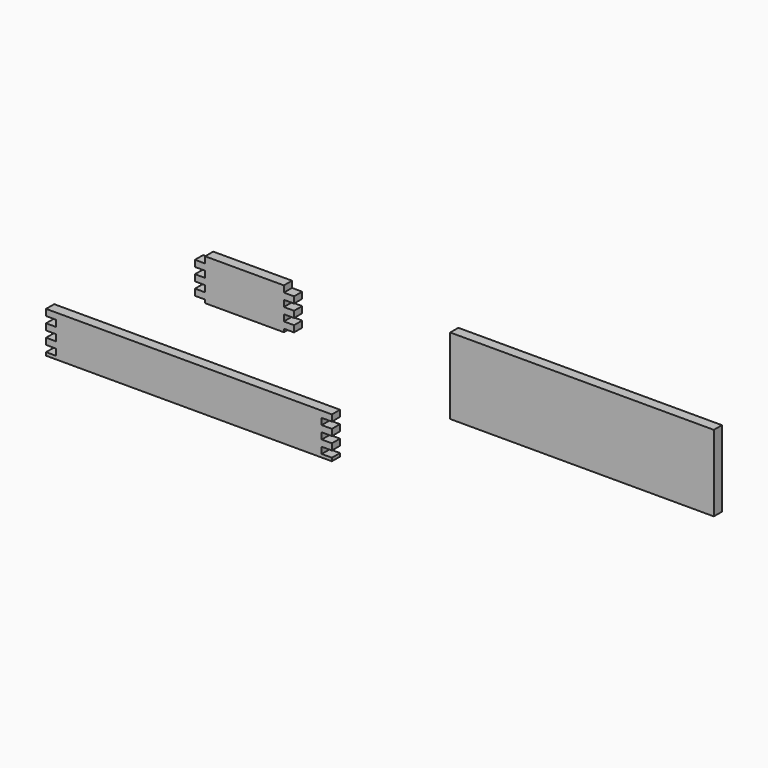
from build123d import *

# Parameters (mm, degrees)
F0_W     = 41.5
F0_H     = 12
F1_DEPTH = 1.6


with BuildPart() as f1:
    # F0 (on Front) → F1 (new body)
    with BuildSketch(Plane.XZ):
        Polygon((-14.412716, 42.46309), (-26.812716, 42.46309), (-26.812716, 41.46309), (-28.412716, 41.46309), (-28.412716, 40.46309), (-26.812716, 40.46309), (-26.812716, 39.46309), (-28.412716, 39.46309), (-28.412716, 38.46309), (-26.812716, 38.46309), (-26.812716, 37.46309), (-28.412716, 37.46309), (-28.412716, 36.46309), (-26.812716, 36.46309), (-26.812716, 35.96309), (-14.412716, 35.96309), (-14.412716, 36.46309), (-12.812716, 36.46309), (-12.812716, 37.46309), (-14.412716, 37.46309), (-14.412716, 38.46309), (-12.812716, 38.46309), (-12.812716, 39.46309), (-14.412716, 39.46309), (-14.412716, 40.46309), (-12.812716, 40.46309), (-12.812716, 41.46309), (-14.412716, 41.46309), align=None)
        with Locations((32.529121, 38.452884)):
            Rectangle(F0_W, F0_H)
        Polygon((-6.854856, 27.033655), (-51.854856, 27.033655), (-51.854856, 26.033655), (-50.254856, 26.033655), (-50.254856, 25.033655), (-51.854856, 25.033655), (-51.854856, 24.033655), (-50.254856, 24.033655), (-50.254856, 23.033655), (-51.854856, 23.033655), (-51.854856, 22.033655), (-50.254856, 22.033655), (-50.254856, 21.033655), (-51.854856, 21.033655), (-51.854856, 20.533655), (-6.854856, 20.533655), (-6.854856, 21.033655), (-8.454856, 21.033655), (-8.454856, 22.033655), (-6.854856, 22.033655), (-6.854856, 23.033655), (-8.454856, 23.033655), (-8.454856, 24.033655), (-6.854856, 24.033655), (-6.854856, 25.033655), (-8.454856, 25.033655), (-8.454856, 26.033655), (-6.854856, 26.033655), align=None)
    extrude(amount=F1_DEPTH)


solid = f1.part
